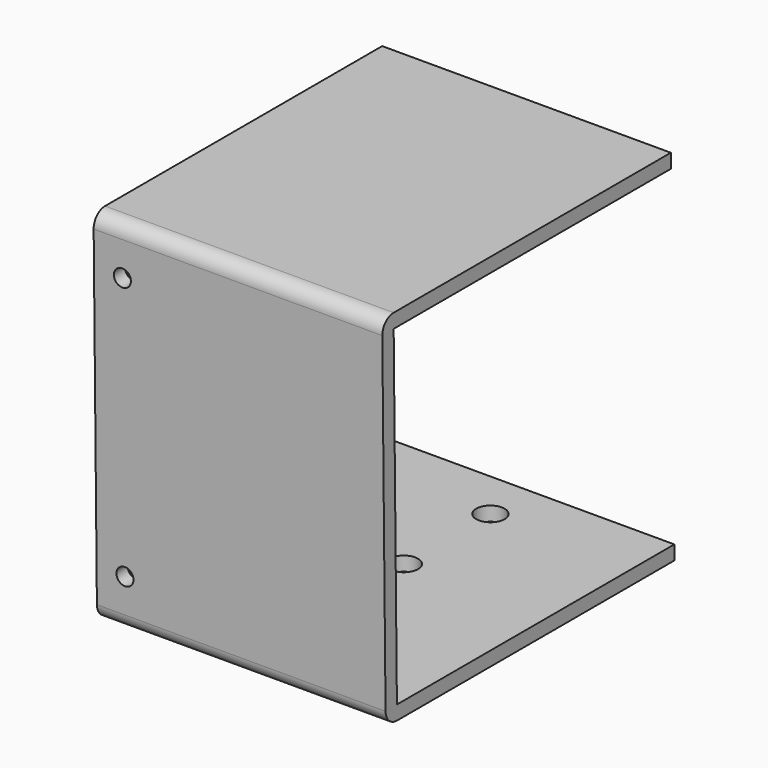
from build123d import *

# Parameters (mm, degrees)
F1_DEPTH = 50.8
F2_R     = 5
F3_DEPTH = 4.9999996097
F4_R     = 3
F5_DEPTH = 128.5401096596


with BuildPart() as f1:
    # F0 (on Right) → F1 (new body, symmetric)
    with BuildSketch(Plane.YZ):
        with BuildLine():
            Line((69.9766400008, 50.951808691), (69.9766400008, 55.9518083008))
            Line((69.9766400008, 55.9518083008), (-51.9620125118, 55.9518083008))
            ThreePointArc((-51.9620125118, 55.9518083008), (-55.5190376607, 54.4657195247), (-56.9616407497, 50.8908371368))
            Line((-56.9616407497, 50.8908371368), (-55.5349245808, -66.0997201058))
            ThreePointArc((-55.5349245808, -66.0997201058), (-54.0492075669, -69.5957740907), (-50.5352963429, -71.0387489418))
            Line((-50.5352963429, -71.0387489418), (71.525307565, -71.0387489418))
            Line((71.525307565, -71.0387489418), (71.525307565, -66.0387493321))
            Line((71.525307565, -66.0387493321), (-50.5352967284, -66.0387493321))
            Line((-50.5352967284, -66.0387493321), (-51.9620129069, 50.951808691))
            Line((-51.9620129069, 50.951808691), (69.9766400008, 50.951808691))
        make_face()
    extrude(amount=F1_DEPTH, both=True)

    # F2 (on face) → F3 (cut, through all)
    with BuildSketch(Plane(origin=(0, 0, -71.0387489418), x_dir=(1, 0, 0), z_dir=(0, 0, -1))):
        with Locations((0, -16)):
            Circle(F2_R)
        with Locations((0, -54.1)):
            Circle(F2_R)
    extrude(amount=-F3_DEPTH, mode=Mode.SUBTRACT)

    # F4 (on face) → F5 (cut, through all)
    with BuildSketch(Plane(origin=(0, -56.3326420192, -0.6869844294), x_dir=(1, 0, 0), z_dir=(0, -0.9999256476, -0.0121942328))):
        with Locations((-40.8, 39.5816567872)):
            Circle(F4_R)
        with Locations((-40.8, -53.4175996333)):
            Circle(F4_R)
    extrude(amount=-F5_DEPTH, mode=Mode.SUBTRACT)


solid = f1.part
